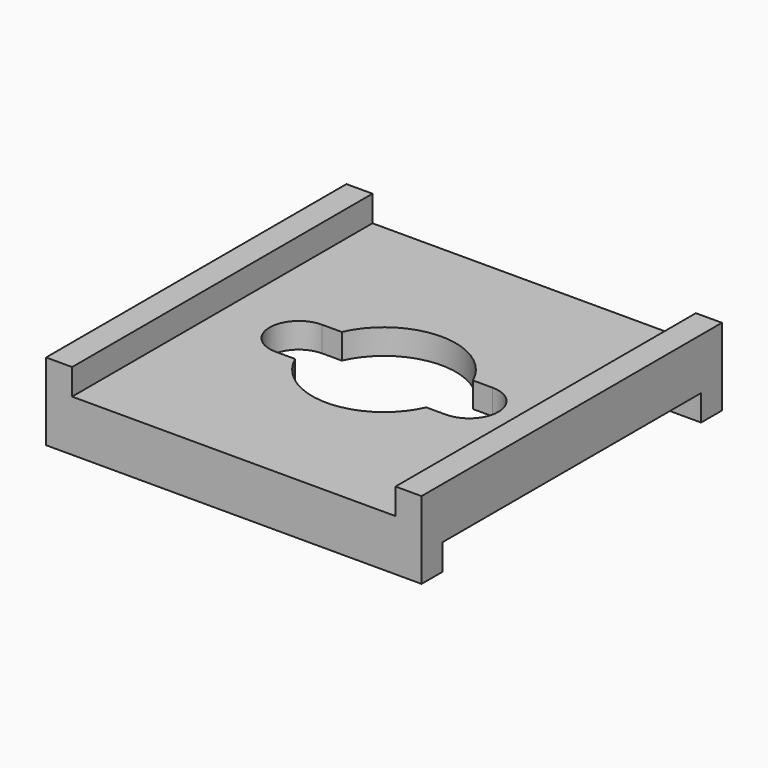
from build123d import *

# Parameters (mm, degrees)
F0_W     = 47.6
F0_H     = 47.6
F1_DEPTH = 1.6
F2_W     = 3.3
F2_H     = 47.6
F3_DEPTH = 3.3
F4_W     = 47.6
F4_H     = 3.3
F5_DEPTH = 3.3


with BuildPart() as f1:
    # F0 (on Top) → F1 (new body, symmetric)
    with BuildSketch(Plane.XY):
        Rectangle(F0_W, F0_H)
        with BuildLine():
            ThreePointArc((-8.313844, 3.7), (0, 9.1), (8.313844, 3.7))
            Line((8.313844, 3.7), (10.8, 3.7))
            ThreePointArc((10.8, 3.7), (14.5, 0), (10.8, -3.7))
            Line((10.8, -3.7), (8.313844, -3.7))
            ThreePointArc((8.313844, -3.7), (0, -9.1), (-8.313844, -3.7))
            Line((-8.313844, -3.7), (-10.8, -3.7))
            ThreePointArc((-10.8, -3.7), (-14.5, 0), (-10.8, 3.7))
            Line((-10.8, 3.7), (-8.313844, 3.7))
        make_face(mode=Mode.SUBTRACT)
    extrude(amount=F1_DEPTH, both=True)

    # F2 (on face) → F3 (join)
    with BuildSketch(Plane.XY.offset(1.6)):
        with Locations((-22.15, 0)):
            Rectangle(F2_W, F2_H)
        with Locations((22.15, 0)):
            Rectangle(F2_W, F2_H)
    extrude(amount=F3_DEPTH)

    # F4 (on face) → F5 (join)
    with BuildSketch(Plane(origin=(0, 0, -1.6), x_dir=(1, 0, 0), z_dir=(0, 0, -1))):
        with Locations((0, -22.15)):
            Rectangle(F4_W, F4_H)
        with Locations((0, 22.15)):
            Rectangle(F4_W, F4_H)
    extrude(amount=F5_DEPTH)


solid = f1.part
